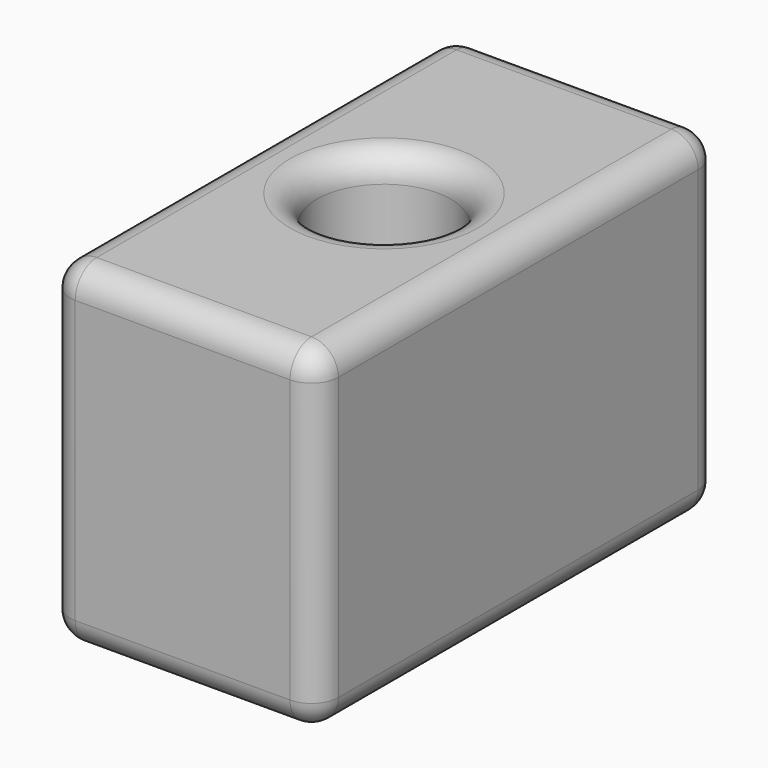
from build123d import *

# Parameters (mm, degrees)
F0_W     = 80
F0_H     = 100
F1_DEPTH = 75
F2_R     = 20
F3_DEPTH = 107
F4_R     = 8


with BuildPart() as f1:
    # F0 (on Front) → F1 (new body, symmetric)
    with BuildSketch(Plane.XZ):
        Rectangle(F0_W, F0_H)
    extrude(amount=F1_DEPTH, both=True)

    # F2 (on face) → F3 (cut)
    with BuildSketch(Plane.XY.offset(50)):
        Circle(F2_R)
    extrude(amount=-F3_DEPTH, mode=Mode.SUBTRACT)

    # F4
    f4_edges = [f1.edges().sort_by_distance(p)[0] for p in [
        (40, 0, 50),
        (40, 75, 0),
        (0, 75, 50),
        (-40, 75, 0),
        (0, 75, -50),
        (-40, 0, 50),
        (-40, 0, -50),
        (-40, -75, 0),
        (40, -75, 0),
        (0, -75, 50),
        (0, -75, -50),
        (40, 0, -50),
        (-20, 0, -50),
        (-20, 0, 50),
    ]]
    fillet(f4_edges, radius=F4_R)


solid = f1.part
